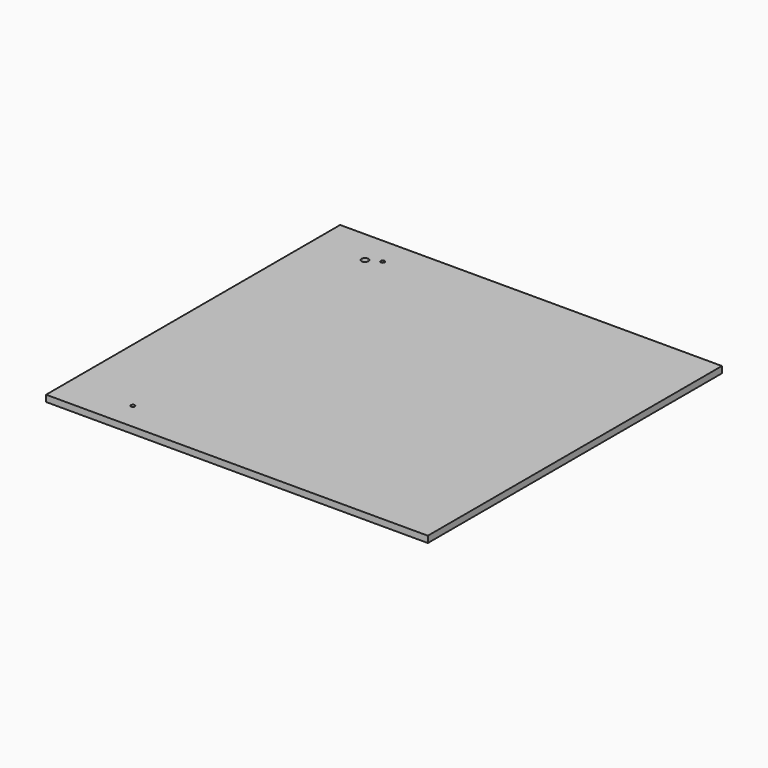
from build123d import *

# Parameters (mm, degrees)
F0_R     = 0.5486564272
F1_DEPTH = 1.0414


with BuildPart() as f1:
    # F0 (on Top) → F1 (new body)
    with BuildSketch(Plane.XY):
        with BuildLine():
            Line((-51.054, 0), (0, 0))
            Line((0, 0), (0, 59.182))
            Line((0, 59.182), (-61.468, 59.182))
            Line((-61.468, 59.182), (-61.468, 54.737))
            Line((-61.468, 54.737), (-51.3715, 54.737))
            ThreePointArc((-51.3715, 54.737), (-51.054, 55.0545), (-50.7365, 54.737))
            ThreePointArc((-50.7365, 54.737), (-50.829493597, 54.512493597), (-51.054, 54.4195))
            Line((-51.054, 54.4195), (-51.054, 4.7625))
            ThreePointArc((-51.054, 4.7625), (-50.829493597, 4.669506403), (-50.7365, 4.445))
            ThreePointArc((-50.7365, 4.445), (-50.829493597, 4.220493597), (-51.054, 4.1275))
            Line((-51.054, 4.1275), (-51.054, 0))
        make_face()
        with BuildLine():
            Line((-61.468, 0), (-51.054, 0))
            Line((-51.054, 0), (-51.054, 4.1275))
            ThreePointArc((-51.054, 4.1275), (-51.3715, 4.445), (-51.054, 4.7625))
            Line((-51.054, 4.7625), (-51.054, 54.4195))
            ThreePointArc((-51.054, 54.4195), (-51.278506403, 54.512493597), (-51.3715, 54.737))
            Line((-51.3715, 54.737), (-61.468, 54.737))
            Line((-61.468, 54.737), (-61.468, 0))
        make_face()
        with Locations((-53.0647188425, 53.6724701524)):
            Circle(F0_R, mode=Mode.SUBTRACT)
        with BuildLine():
            Line((-51.054, 0), (0, 0))
            Line((0, 0), (0, 59.182))
            Line((0, 59.182), (-61.468, 59.182))
            Line((-61.468, 59.182), (-61.468, 54.737))
            Line((-61.468, 54.737), (-51.3715, 54.737))
            ThreePointArc((-51.3715, 54.737), (-51.054, 55.0545), (-50.7365, 54.737))
            ThreePointArc((-50.7365, 54.737), (-50.829493597, 54.512493597), (-51.054, 54.4195))
            Line((-51.054, 54.4195), (-51.054, 4.7625))
            ThreePointArc((-51.054, 4.7625), (-50.829493597, 4.669506403), (-50.7365, 4.445))
            ThreePointArc((-50.7365, 4.445), (-50.829493597, 4.220493597), (-51.054, 4.1275))
            Line((-51.054, 4.1275), (-51.054, 0))
        make_face()
    extrude(amount=F1_DEPTH)


solid = f1.part
